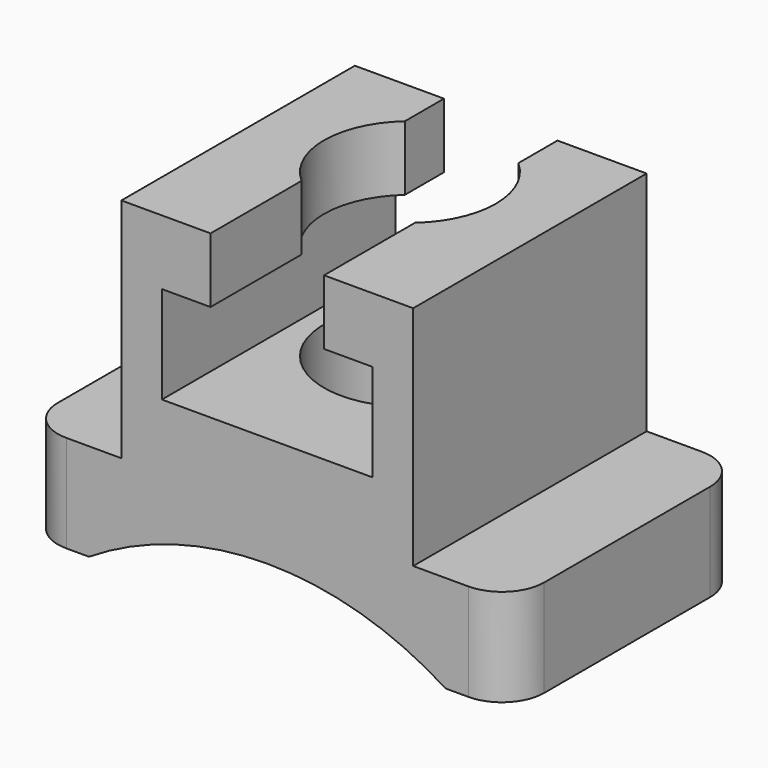
from build123d import *

# Parameters (mm, degrees)
PAD_DEPTH         = 30
SKETCH002_W       = 90
SKETCH002_H       = 90
PAD001_DEPTH      = 100
POCKET_DEPTH      = 45.001
POCKET_DEPTH_BACK = -45.001
POCKET001_DEPTH   = 90.001
SKETCH004_R       = 26.5
POCKET002_DEPTH   = 100.001


with BuildPart() as part:
    # Sketch (on XY_Plane of Origin) → Pad (new body)
    with BuildSketch(Plane.XY):
        with BuildLine():
            Line((-75, 32), (-75, -32))
            ThreePointArc((-75, -32), (-71.192388, -41.192388), (-62, -45))
            Line((-62, -45), (62, -45))
            ThreePointArc((62, -45), (71.192388, -41.192388), (75, -32))
            Line((75, -32), (75, 32))
            ThreePointArc((75, 32), (71.192388, 41.192388), (62, 45))
            Line((62, 45), (-62, 45))
            ThreePointArc((-62, 45), (-71.192388, 41.192388), (-75, 32))
        make_face()
    extrude(amount=PAD_DEPTH)

    # Sketch002 (on XY_Plane of Origin) → Pad001 (join)
    with BuildSketch(Plane.XY):
        Rectangle(SKETCH002_W, SKETCH002_H)
    extrude(amount=PAD001_DEPTH)

    # Sketch001 (on XZ_Plane of Origin) → Pocket (cut, two sides)
    with BuildSketch(Plane.XZ) as pocket_sk:
        with BuildLine():
            ThreePointArc((55, 0), (0, 16), (-55, 0))
            Line((-55, 0), (55, 0))
        make_face()
    extrude(amount=-POCKET_DEPTH, mode=Mode.SUBTRACT)
    extrude(pocket_sk.sketch, amount=-POCKET_DEPTH_BACK, mode=Mode.SUBTRACT)

    # Sketch003 (on Face14 of Pocket) → Pocket001 (cut, through all)
    with BuildSketch(Plane.XZ.offset(45)):
        Polygon((-17.5, 100), (17.5, 100), (17.5, 80), (32.5, 80), (32.5, 50), (-32.5, 50), (-32.5, 80), (-17.5, 80), align=None)
    extrude(amount=-POCKET001_DEPTH, mode=Mode.SUBTRACT)

    # Sketch004 (on XY_Plane of Origin) → Pocket002 (cut, through all)
    with BuildSketch(Plane.XY):
        with Locations((0, 10)):
            Circle(SKETCH004_R)
    extrude(amount=POCKET002_DEPTH, mode=Mode.SUBTRACT)


solid = part.part
